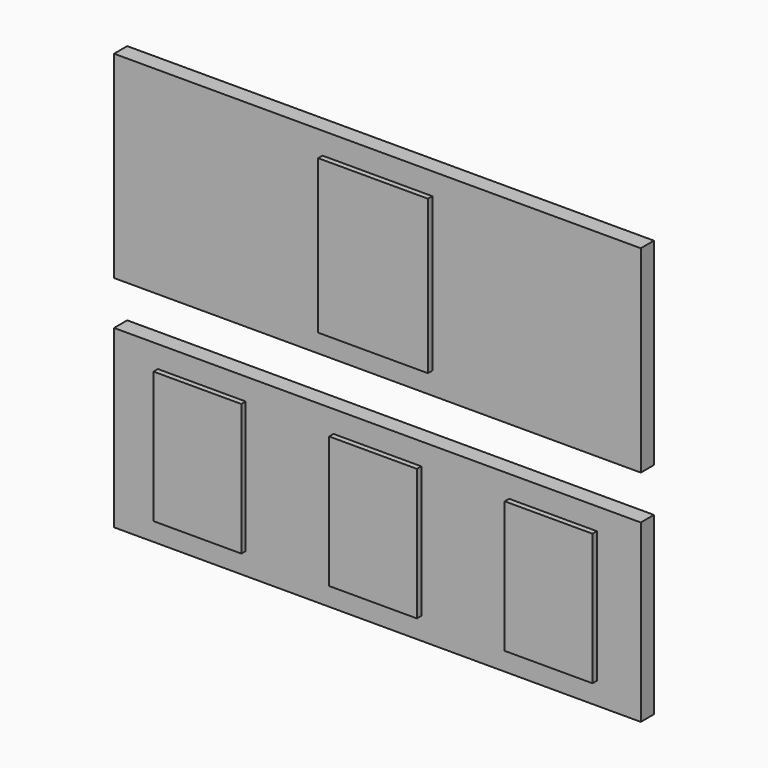
from build123d import *

# Parameters (mm, degrees)
F0_W     = 127
F0_H     = 177.8
F1_DEPTH = 6.35
F2_W     = 609.6
F2_H     = 228.6
F3_DEPTH = 19.05
F4_W     = 101.6
F4_H     = 152.4
F5_DEPTH = 6.35
F7_DEPTH = 19.05


with BuildPart() as f1:
    # F0 (on Front) → F1 (new body)
    with BuildSketch(Plane.XZ):
        with Locations((0, 88.9)):
            Rectangle(F0_W, F0_H)
    extrude(amount=F1_DEPTH)

    # F2 (on Front) → F3 (join)
    with BuildSketch(Plane.XZ):
        with Locations((0, 88.9)):
            Rectangle(F2_W, F2_H)
    extrude(amount=-F3_DEPTH)


with BuildPart() as f5:
    # F4 (on Front) → F5 (new body)
    with BuildSketch(Plane.XZ):
        with Locations((0, -177.8)):
            Rectangle(F4_W, F4_H)
        with Locations((203.2, -177.8)):
            Rectangle(F4_W, F4_H)
        with Locations((-203.2, -177.8)):
            Rectangle(F4_W, F4_H)
    extrude(amount=F5_DEPTH)


with BuildPart() as f7:
    # F6 (on Front) → F7 (new body)
    with BuildSketch(Plane.XZ):
        Polygon((0, -76.2), (-304.8, -76.2), (-304.8, -177.8), (-304.8, -279.4), (304.8, -279.4), (304.8, -76.2), align=None)
    extrude(amount=-F7_DEPTH)


solid = Compound([f1.part, f5.part, f7.part])
